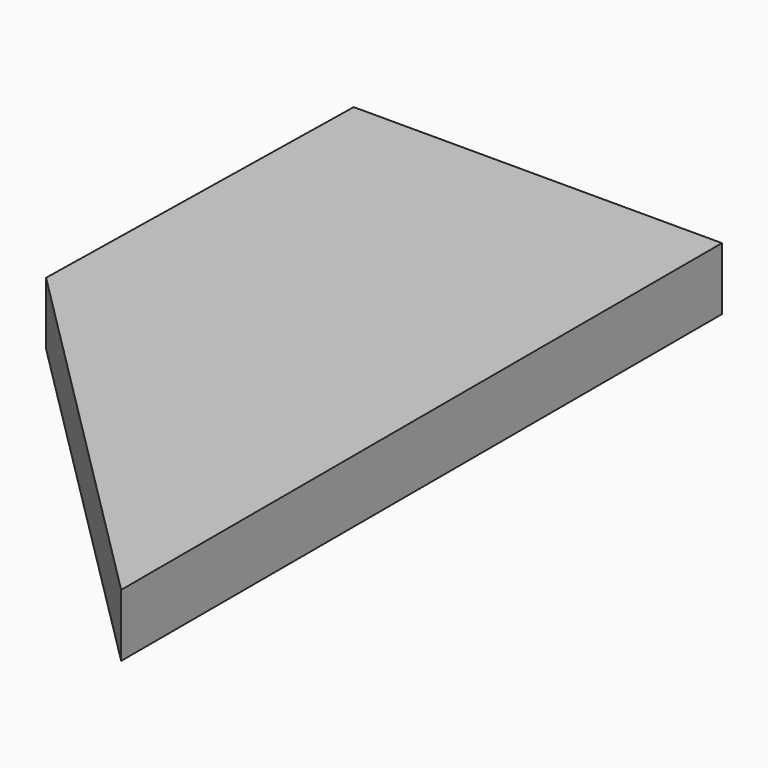
from build123d import *

# Parameters (mm, degrees)
F0_W     = 304.8
F0_H     = 304.8
F1_DEPTH = 25.4
F3_DEPTH = 25.4
F5_DEPTH = 25.4


with BuildPart() as f1:
    # F0 (on Top) → F1 (new body)
    with BuildSketch(Plane.XY):
        Rectangle(F0_W, F0_H)
    extrude(amount=F1_DEPTH)

    # F2 (on face) → F3 (cut)
    with BuildSketch(Plane.XY.offset(25.4)):
        Polygon((152.4, -152.4), (0, 0), (-152.4, -152.4), align=None)
    extrude(amount=-F3_DEPTH, mode=Mode.SUBTRACT)

    # F4 (on face) → F5 (cut)
    with BuildSketch(Plane(origin=(0, 0, 0), x_dir=(1, 0, 0), z_dir=(0, 0, -1))):
        Polygon((2.948233, -152.4), (0, 0), (-152.4, 152.4), (-152.4, -152.4), align=None)
    extrude(amount=-F5_DEPTH, mode=Mode.SUBTRACT)


solid = f1.part
